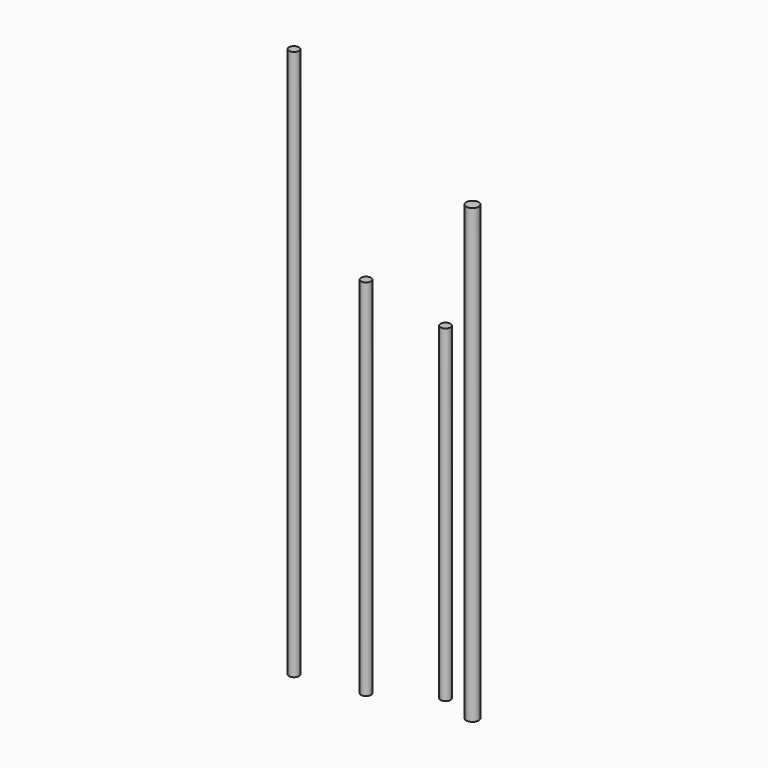
from build123d import *

# Parameters (mm, degrees)
F0_R     = 4
F1_DEPTH = 443
F2_R     = 4
F3_DEPTH = 293
F4_R     = 4
F5_DEPTH = 264
F6_R     = 5
F7_DEPTH = 364


with BuildPart() as f1:
    # F0 (on Top) → F1 (new body)
    with BuildSketch(Plane.XY):
        Circle(F0_R)
    extrude(amount=F1_DEPTH)


with BuildPart() as f3:
    # F2 (on Top) → F3 (new body)
    with BuildSketch(Plane.XY):
        with Locations((51.322076, 8.29392)):
            Circle(F2_R)
    extrude(amount=F3_DEPTH)


with BuildPart() as f5:
    # F4 (on Top) → F5 (new body)
    with BuildSketch(Plane.XY):
        with Locations((94.661281, 34.147188)):
            Circle(F4_R)
    extrude(amount=F5_DEPTH)


with BuildPart() as f7:
    # F6 (on Top) → F7 (new body)
    with BuildSketch(Plane.XY):
        with Locations((124.89669, 23.430059)):
            Circle(F6_R)
    extrude(amount=F7_DEPTH)


solid = Compound([f1.part, f3.part, f5.part, f7.part])
